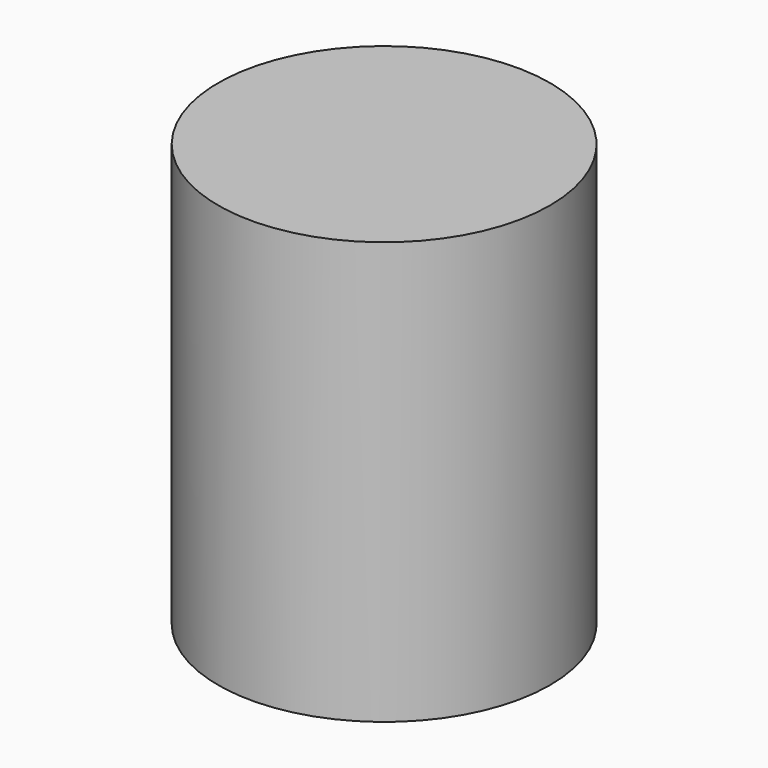
from build123d import *

# Parameters (mm, degrees)
SKETCH_R     = 2.75
SKETCH_R_2   = 1.75
PAD_DEPTH    = 4
SKETCH001_R  = 2.75
PAD001_DEPTH = 3


with BuildPart() as part:
    # Sketch → Pad (new body)
    with BuildSketch(Plane.XY):
        Circle(SKETCH_R)
        Circle(SKETCH_R_2, mode=Mode.SUBTRACT)
    extrude(amount=PAD_DEPTH)

    # Sketch001 (on Face4 of Pad) → Pad001 (join)
    with BuildSketch(Plane.XY.offset(4)):
        Circle(SKETCH001_R)
    extrude(amount=PAD001_DEPTH)


solid = part.part
